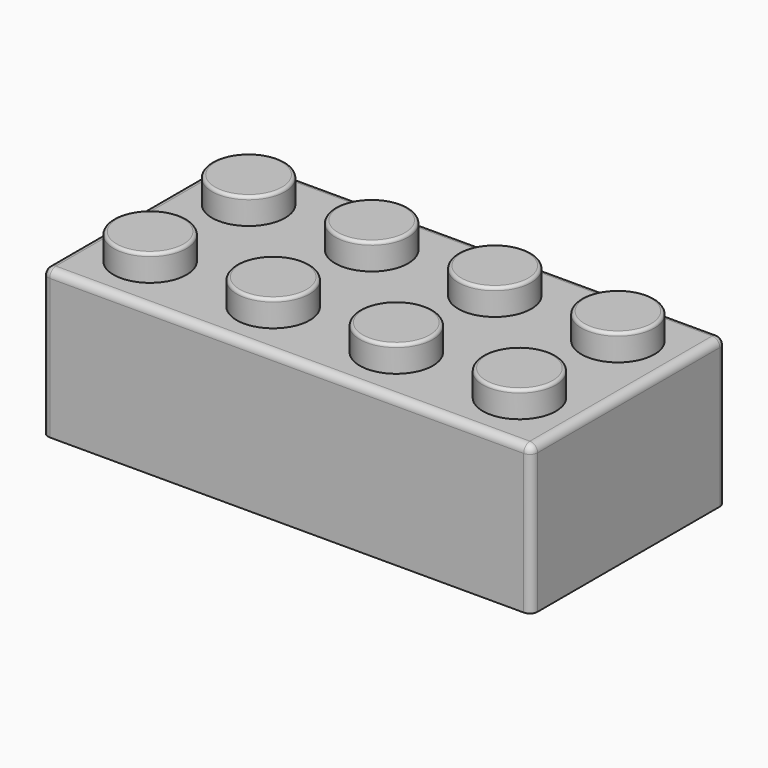
from build123d import *

# Parameters (mm, degrees)
F1_DEPTH = 9.6
F2_R     = 0.5
F3_R     = 2.375
F4_DEPTH = 1.7
F5_R     = 0.2
F6_W     = 28.82
F6_H     = 12.82
F6_R     = 3.155
F6_R_2   = 2.655
F7_DEPTH = 8.1


with BuildPart() as f1:
    # F0 (on Top) → F1 (new body)
    with BuildSketch(Plane.XY):
        with BuildLine():
            ThreePointArc((0, 0.5), (0.146447, 0.146447), (0.5, 0))
            Line((0.5, 0), (31.3, 0))
            ThreePointArc((31.3, 0), (31.653553, 0.146447), (31.8, 0.5))
            Line((31.8, 0.5), (31.8, 15.3))
            ThreePointArc((31.8, 15.3), (31.653553, 15.653553), (31.3, 15.8))
            Line((31.3, 15.8), (0.5, 15.8))
            ThreePointArc((0.5, 15.8), (0.146447, 15.653553), (0, 15.3))
            Line((0, 15.3), (0, 0.5))
        make_face()
    extrude(amount=F1_DEPTH)

    # F2
    f2_edges = [f1.edges().sort_by_distance(p)[0] for p in [
        (15.9, 0, 9.6),
    ]]
    fillet(f2_edges, radius=F2_R)

    # F3 (on face) → F4 (join)
    with BuildSketch(Plane.XY.offset(9.6)):
        with Locations((3.9, 3.9)):
            Circle(F3_R)
        with Locations((3.9, 11.9)):
            Circle(F3_R)
        with Locations((11.9, 3.9)):
            Circle(F3_R)
        with Locations((11.9, 11.9)):
            Circle(F3_R)
        with Locations((19.9, 3.9)):
            Circle(F3_R)
        with Locations((19.9, 11.9)):
            Circle(F3_R)
        with Locations((27.9, 3.9)):
            Circle(F3_R)
        with Locations((27.9, 11.9)):
            Circle(F3_R)
    extrude(amount=F4_DEPTH)

    # F5
    f5_edges = [f1.edges().sort_by_distance(p)[0] for p in [
        (1.525, 3.9, 11.3),
        (1.525, 11.9, 11.3),
        (9.525, 11.9, 11.3),
        (9.525, 3.9, 11.3),
        (17.525, 3.9, 11.3),
        (17.525, 11.9, 11.3),
        (25.525, 11.9, 11.3),
        (25.525, 3.9, 11.3),
    ]]
    fillet(f5_edges, radius=F5_R)

    # F6 (on face) → F7 (cut)
    with BuildSketch(Plane(origin=(0, 0, 0), x_dir=(1, 0, 0), z_dir=(0, 0, -1))):
        with Locations((15.9, -7.9)):
            Rectangle(F6_W, F6_H)
        with Locations((7.9, -7.9)):
            Circle(F6_R, mode=Mode.SUBTRACT)
        with Locations((15.9, -7.9)):
            Circle(F6_R, mode=Mode.SUBTRACT)
        with Locations((23.9, -7.9)):
            Circle(F6_R, mode=Mode.SUBTRACT)
        with Locations((7.9, -7.9)):
            Circle(F6_R_2)
        with Locations((15.9, -7.9)):
            Circle(F6_R_2)
        with Locations((23.9, -7.9)):
            Circle(F6_R_2)
    extrude(amount=-F7_DEPTH, mode=Mode.SUBTRACT)


solid = f1.part
